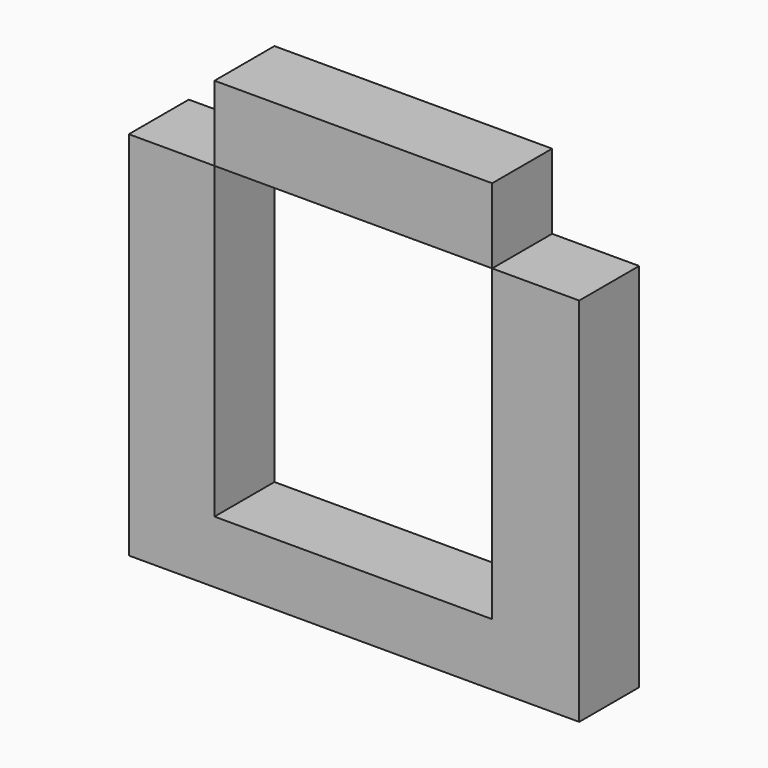
from build123d import *

# Parameters (mm, degrees)
F1_DEPTH = 12.7
F0_W     = 47.0529291779
F0_H     = 12.7030676231


with BuildPart() as f1:
    # F0 (on Front) → F1 (new body)
    with BuildSketch(Plane.XZ):
        Polygon((14.5189296454, -12.7030676231), (0, -12.7030676231), (0, -75.563699007), (76.3243660331, -75.563699007), (76.3243660331, -12.7030676231), (61.5718588233, -12.7030676231), (61.5718588233, -65.0329515338), (14.5189296454, -65.0329515338), align=None)
    extrude(amount=F1_DEPTH)


with BuildPart() as f1b:
    # F0 (on Front) → F1, piece 2 (new body)
    with BuildSketch(Plane.XZ):
        with Locations((38.0453942344, -6.3515338115)):
            Rectangle(F0_W, F0_H)
    extrude(amount=F1_DEPTH)


solid = Compound([f1.part, f1b.part])
